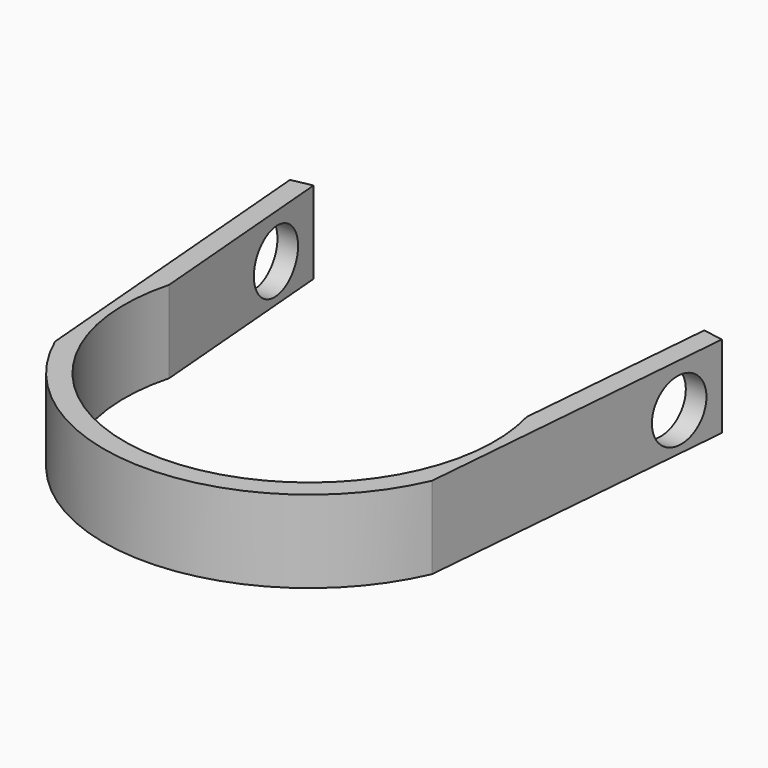
from build123d import *

# Parameters (mm, degrees)
F1_DEPTH = 25.4
F2_R     = 9.525
F3_DEPTH = 66.676
F4_DEPTH = 66.676


with BuildPart() as f1:
    # F0 (on Top) → F1 (new body)
    with BuildSketch(Plane.XY):
        with BuildLine():
            Line((-60.410346, 74.541754), (-66.675, 73.258158))
            Line((-66.675, 73.258158), (-58.185558, -27.986543))
            ThreePointArc((-58.185558, -27.986543), (0, -66.056425), (58.185558, -27.986543))
            Line((58.185558, -27.986543), (66.675, 73.258158))
            Line((66.675, 73.258158), (60.388141, 74.276935))
            Line((60.388141, 74.276935), (55.189879, 12.282703))
            ThreePointArc((55.189879, 12.282703), (0, -59.706425), (-55.189879, 12.282703))
            Line((-55.189879, 12.282703), (-60.410346, 74.541754))
        make_face()
    extrude(amount=-F1_DEPTH)

    # F2 (on Right) → F3 (cut, through all)
    with BuildSketch(Plane.YZ):
        with Locations((58.328964, -13.568129)):
            Circle(F2_R)
    extrude(amount=F3_DEPTH, mode=Mode.SUBTRACT)

    # F2 (on Right) → F4 (cut, through all)
    with BuildSketch(Plane.YZ):
        with Locations((58.328964, -13.568129)):
            Circle(F2_R)
    extrude(amount=-F4_DEPTH, mode=Mode.SUBTRACT)


solid = f1.part
